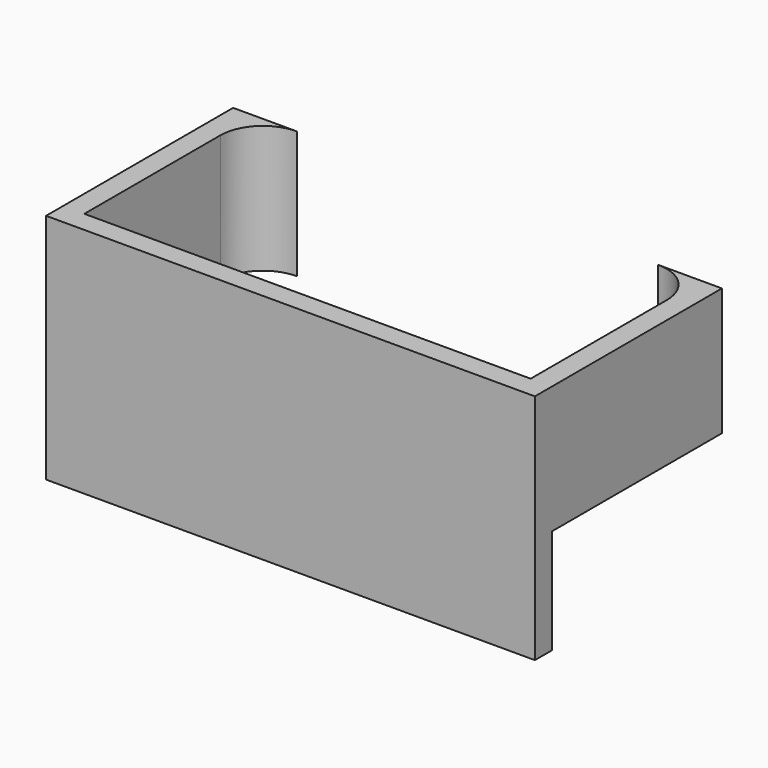
from build123d import *

# Parameters (mm, degrees)
F0_W     = 115
F0_H     = 54.641016
F1_DEPTH = 5
F3_DEPTH = 30


with BuildPart() as f1:
    # F0 (on Front) → F1 (new body)
    with BuildSketch(Plane.XZ):
        with Locations((0, -0.320508)):
            Rectangle(F0_W, F0_H)
    extrude(amount=-F1_DEPTH)

    # F2 (on face) → F3 (join)
    with BuildSketch(Plane.XY.offset(27)):
        with BuildLine():
            Line((-57.5, 55), (-57.5, 5))
            Line((-57.5, 5), (-52.5, 5))
            Line((-52.5, 5), (-52.5, 45))
            ThreePointArc((-52.5, 45), (-49.571068, 52.071068), (-42.5, 55))
            Line((-42.5, 55), (-57.5, 55))
        make_face()
        with BuildLine():
            Line((52.5, 5), (57.5, 5))
            Line((57.5, 5), (57.5, 55))
            Line((57.5, 55), (42.5, 55))
            ThreePointArc((42.5, 55), (49.571068, 52.071068), (52.5, 45))
            Line((52.5, 45), (52.5, 5))
        make_face()
    extrude(amount=-F3_DEPTH)


solid = f1.part
